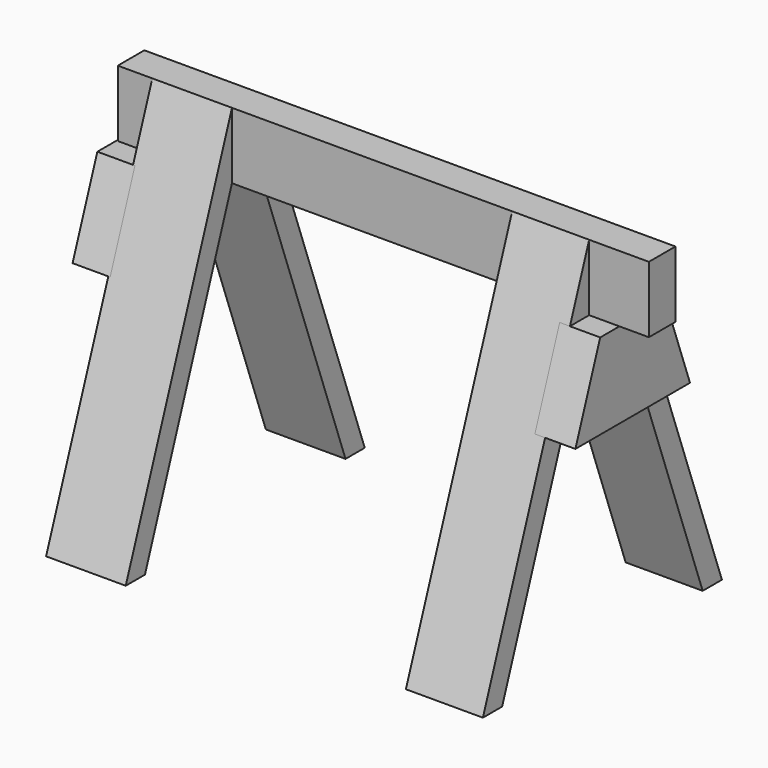
from build123d import *

# Parameters (mm, degrees)
F0_W          = 6.35
F0_H          = 12.7
F1_DEPTH      = 101.6
F2_START      = 6.604
F2_DEPTH      = 14.224
F3_START      = 75.438
F3_DEPTH      = 14.732
F4_START      = 6.604
F4_DEPTH      = 15.24
F5_DEPTH      = 0.2286
F5_DEPTH_BACK = 6.9596
F6_START      = 88.2142
F6_DEPTH      = 7.747


with BuildPart() as f1:
    # F0 (on Right) → F1 (new body)
    with BuildSketch(Plane.YZ):
        with Locations((-3.175, 33.4065240977)):
            Rectangle(F0_W, F0_H)
    extrude(amount=F1_DEPTH)

    # F0 (on Right) → F2 (join)
    with BuildSketch(Plane.YZ.offset(F2_START)):
        Polygon((-6.35, 27.0565240977), (-6.35, 39.7565240977), (-10.9474, 27.0565240977), align=None)
        Polygon((-12.2761771333, 10.6858690333), (-6.35, 27.0565240977), (-10.9474, 27.0565240977), (-16.8735771333, 10.6858690333), align=None)
        Polygon((4.5974, 27.0565240977), (0, 39.7565240977), (0, 27.0565240977), align=None)
        Polygon((4.5974, 27.0565240977), (0, 27.0565240977), (5.9261771333, 10.6858690333), (10.5235771333, 10.6858690333), align=None)
        Polygon((-27.1526, -30.4092217587), (-12.2761771333, 10.6858690333), (-16.8735771333, 10.6858690333), (-31.75, -30.4092217587), align=None)
        Polygon((10.5235771333, 10.6858690333), (5.9261771333, 10.6858690333), (20.8026, -30.4092217587), (25.4, -30.4092217587), align=None)
    extrude(amount=F2_DEPTH)

    # F0 (on Right) → F3 (join)
    with BuildSketch(Plane.YZ.offset(F3_START)):
        Polygon((10.5235771333, 10.6858690333), (5.9261771333, 10.6858690333), (20.8026, -30.4092217587), (25.4, -30.4092217587), align=None)
        Polygon((4.5974, 27.0565240977), (0, 27.0565240977), (5.9261771333, 10.6858690333), (10.5235771333, 10.6858690333), align=None)
        Polygon((-12.2761771333, 10.6858690333), (-6.35, 27.0565240977), (-10.9474, 27.0565240977), (-16.8735771333, 10.6858690333), align=None)
        Polygon((-6.35, 27.0565240977), (-6.35, 39.7565240977), (-10.9474, 27.0565240977), align=None)
        Polygon((4.5974, 27.0565240977), (0, 39.7565240977), (0, 27.0565240977), align=None)
        Polygon((-27.1526, -30.4092217587), (-12.2761771333, 10.6858690333), (-16.8735771333, 10.6858690333), (-31.75, -30.4092217587), align=None)
    extrude(amount=F3_DEPTH)

    # F0 (on Right) → F4 (join)
    with BuildSketch(Plane.YZ.offset(F4_START)):
        Polygon((10.5235771333, 10.6858690333), (5.9261771333, 10.6858690333), (20.8026, -30.4092217587), (25.4, -30.4092217587), align=None)
        Polygon((-27.1526, -30.4092217587), (-12.2761771333, 10.6858690333), (-16.8735771333, 10.6858690333), (-31.75, -30.4092217587), align=None)
        Polygon((4.5974, 27.0565240977), (0, 39.7565240977), (0, 27.0565240977), align=None)
        Polygon((-6.35, 27.0565240977), (-6.35, 39.7565240977), (-10.9474, 27.0565240977), align=None)
        with Locations((-3.175, 33.4065240977)):
            Rectangle(F0_W, F0_H)
        Polygon((4.5974, 27.0565240977), (0, 27.0565240977), (5.9261771333, 10.6858690333), (10.5235771333, 10.6858690333), align=None)
        Polygon((-12.2761771333, 10.6858690333), (-6.35, 27.0565240977), (-10.9474, 27.0565240977), (-16.8735771333, 10.6858690333), align=None)
    extrude(amount=F4_DEPTH)


with BuildPart() as f5:
    # F0 (on Right) → F5 (new body, two sides)
    with BuildSketch(Plane.YZ) as f5_sk:
        Polygon((4.5974, 27.0565240977), (0, 27.0565240977), (5.9261771333, 10.6858690333), (10.5235771333, 10.6858690333), align=None)
        Polygon((5.9261771333, 10.6858690333), (0, 27.0565240977), (-6.35, 27.0565240977), (-12.2761771333, 10.6858690333), align=None)
        Polygon((-12.2761771333, 10.6858690333), (-6.35, 27.0565240977), (-10.9474, 27.0565240977), (-16.8735771333, 10.6858690333), align=None)
    extrude(amount=-F5_DEPTH)
    extrude(f5_sk.sketch, amount=F5_DEPTH_BACK)


with BuildPart() as f6:
    # F0 (on Right) → F6 (new body)
    with BuildSketch(Plane.YZ.offset(F6_START)):
        Polygon((4.5974, 27.0565240977), (0, 27.0565240977), (5.9261771333, 10.6858690333), (10.5235771333, 10.6858690333), align=None)
        Polygon((-12.2761771333, 10.6858690333), (-6.35, 27.0565240977), (-10.9474, 27.0565240977), (-16.8735771333, 10.6858690333), align=None)
        Polygon((5.9261771333, 10.6858690333), (0, 27.0565240977), (-6.35, 27.0565240977), (-12.2761771333, 10.6858690333), align=None)
    extrude(amount=F6_DEPTH)


solid = Compound([f1.part, f5.part, f6.part])
